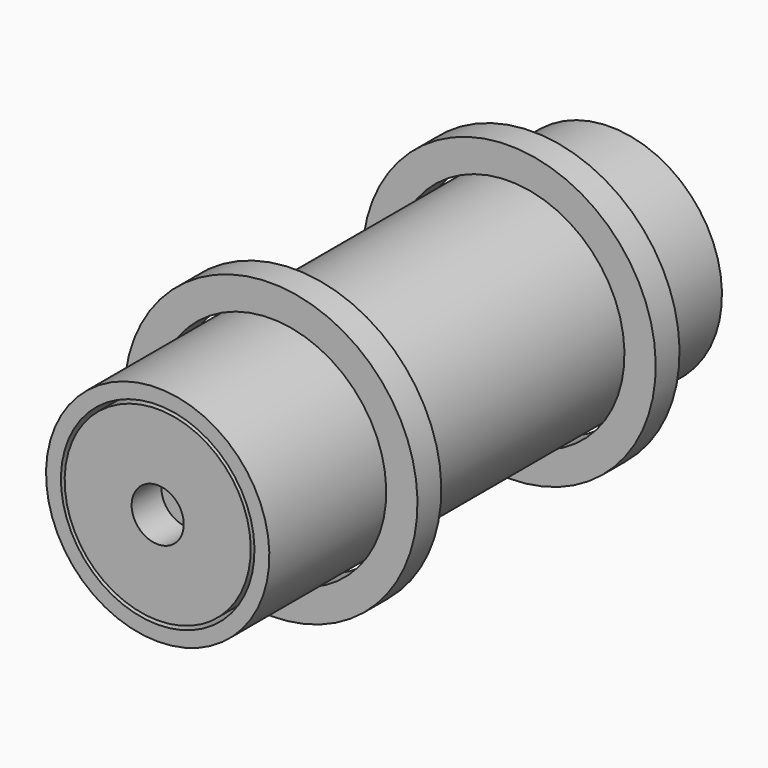
from build123d import *

# Parameters (mm, degrees)
F0_W = 70
F0_H = 12
F2_W = 76
F2_H = 2
F4_W = 4
F4_H = 4.2
F6_W = 5
F6_H = 9


with BuildPart() as f1:
    # F0 (on Right) → F1 (revolve)
    with BuildSketch(Plane.YZ):
        with Locations((0, -6)):
            Rectangle(F0_W, F0_H)
    revolve(axis=Axis((0, 0, 0), (0, -1, 0)))


with BuildPart() as f3:
    # F2 (on Right) → F3 (revolve)
    with BuildSketch(Plane.YZ):
        with Locations((-3, -14)):
            Rectangle(F2_W, F2_H)
    revolve(axis=Axis((0, 2.477687, 0), (0, -1, 0)))


with BuildPart() as f5:
    # F4 (on Right) → F5 (revolve)
    with BuildSketch(Plane.YZ):
        with Locations((-20, -17.6)):
            Rectangle(F4_W, F4_H)
        with Locations((20, -17.6)):
            Rectangle(F4_W, F4_H)
    revolve(axis=Axis((0, 2.477687, 0), (0, -1, 0)))


with BuildPart() as f7:
    # F6 (on Right) → F7 (revolve)
    with BuildSketch(Plane.YZ):
        with Locations((-38.5, -8)):
            Rectangle(F6_W, F6_H)
    revolve(axis=Axis((0, 2.477687, 0), (0, -1, 0)))


solid = Compound([f1.part, f3.part, f5.part, f7.part])
